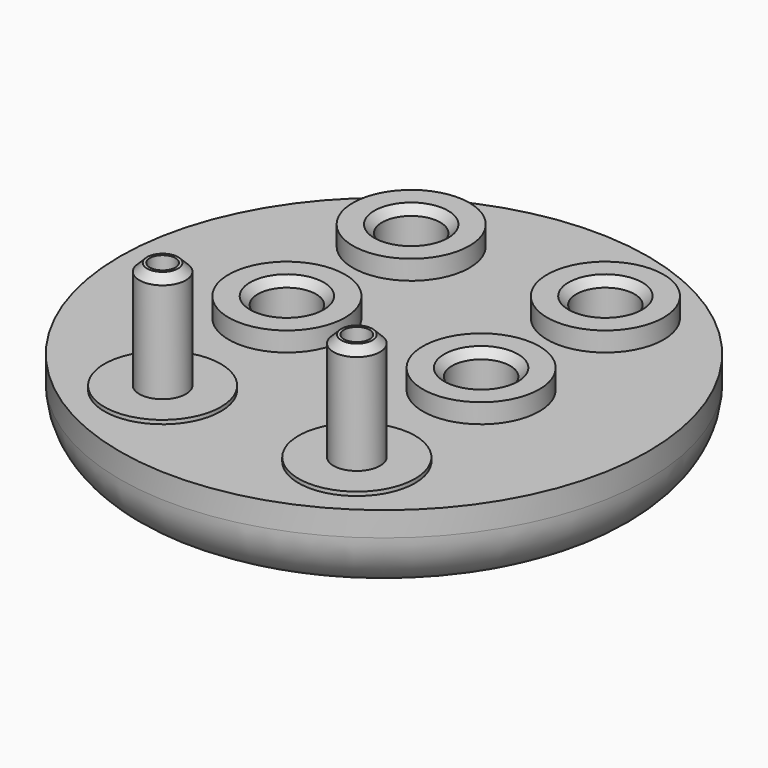
from build123d import *

# Parameters (mm, degrees)
F2_R     = 15
F2_R_2   = 7.5
F3_DEPTH = 5
F2_R_3   = 3.3
F4_DEPTH = 19
F2_R_4   = 6
F5_DEPTH = 28.8
F6_DEPTH = 1
F7_SIZE  = 2


with BuildPart() as f1:
    # F0 (on Front) → F1 (revolve)
    with BuildSketch(Plane.XZ):
        with BuildLine():
            Line((0, -19.3), (0, 0))
            Line((0, 0), (-68, 0))
            Line((-68, 0), (-68, -6.3))
            ThreePointArc((-68, -6.3), (-63.606602, -16.906602), (-53, -21.3))
            Line((-53, -21.3), (-42, -21.3))
            Line((-42, -21.3), (-42, -19.3))
            Line((-42, -19.3), (0, -19.3))
        make_face()
    revolve(axis=Axis((0, 0, -9.65), (0, 0, -1)))

    # F2 (on face) → F3 (join)
    with BuildSketch(Plane.XY):
        with Locations((-25, 40)):
            Circle(F2_R)
        with Locations((-25, 40)):
            Circle(F2_R_2, mode=Mode.SUBTRACT)
        with Locations((25, 40)):
            Circle(F2_R)
        with Locations((25, 40)):
            Circle(F2_R_2, mode=Mode.SUBTRACT)
        with Locations((25, 0)):
            Circle(F2_R)
        with Locations((25, 0)):
            Circle(F2_R_2, mode=Mode.SUBTRACT)
        with Locations((-25, 0)):
            Circle(F2_R)
        with Locations((-25, 0)):
            Circle(F2_R_2, mode=Mode.SUBTRACT)
    extrude(amount=F3_DEPTH)

    # F2 (on face) → F4 (cut)
    with BuildSketch(Plane.XY):
        with Locations((-25, 40)):
            Circle(F2_R_2)
        with Locations((25, 40)):
            Circle(F2_R_2)
        with Locations((25, 0)):
            Circle(F2_R_2)
        with Locations((-25, 0)):
            Circle(F2_R_2)
        with Locations((-25, -40)):
            Circle(F2_R_3)
        with Locations((25, -40)):
            Circle(F2_R_3)
    extrude(amount=-F4_DEPTH, mode=Mode.SUBTRACT)

    # F2 (on face) → F5 (join)
    with BuildSketch(Plane.XY):
        with Locations((-25, -40)):
            Circle(F2_R_4)
        with Locations((-25, -40)):
            Circle(F2_R_3, mode=Mode.SUBTRACT)
        with Locations((25, -40)):
            Circle(F2_R_4)
        with Locations((25, -40)):
            Circle(F2_R_3, mode=Mode.SUBTRACT)
    extrude(amount=F5_DEPTH)

    # F2 (on face) → F6 (join)
    with BuildSketch(Plane.XY):
        with Locations((-25, -40)):
            Circle(F2_R)
        with Locations((-25, -40)):
            Circle(F2_R_4, mode=Mode.SUBTRACT)
        with Locations((25, -40)):
            Circle(F2_R)
        with Locations((25, -40)):
            Circle(F2_R_4, mode=Mode.SUBTRACT)
    extrude(amount=F6_DEPTH)

    # F7
    f7_edges = [f1.edges().sort_by_distance(p)[0] for p in [
        (-32.5, 40, 5),
        (17.5, 40, 5),
        (17.5, 0, 5),
        (-32.5, 0, 5),
        (-31, -40, 28.8),
        (19, -40, 28.8),
    ]]
    chamfer(f7_edges, length=F7_SIZE)


solid = f1.part
